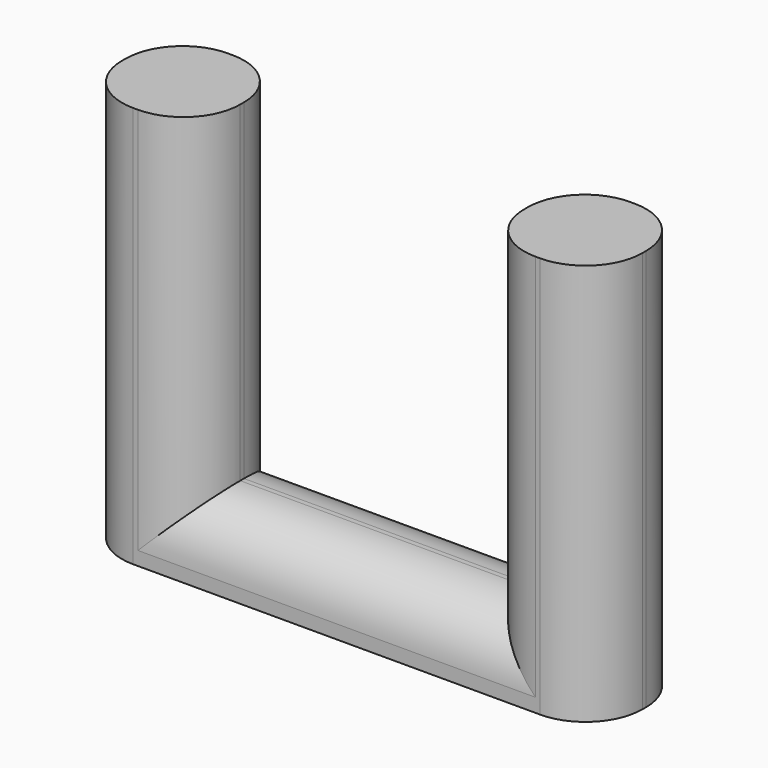
from build123d import *

# Parameters (mm, degrees)
F0_W     = 6.985
F0_H     = 1.5875
F1_DEPTH = 0.94615
F2_W     = 1.5875
F2_H     = 1.5875
F3_DEPTH = 4.445
F4_R     = 0.762


with BuildPart() as f1:
    # F0 (on Top) → F1 (new body)
    with BuildSketch(Plane.XY):
        with Locations((3.4925, 0.79375)):
            Rectangle(F0_W, F0_H)
    extrude(amount=F1_DEPTH)

    # F2 (on face) → F3 (join)
    with BuildSketch(Plane.XY.offset(0.94615)):
        with Locations((0.79375, 0.79375)):
            Rectangle(F2_W, F2_H)
        with Locations((6.19125, 0.79375)):
            Rectangle(F2_W, F2_H)
    extrude(amount=F3_DEPTH)

    # F4
    f4_edges = [f1.edges().sort_by_distance(p)[0] for p in [
        (0, 0, 2.695575),
        (1.5875, 0, 3.16865),
        (3.4925, 0, 0.94615),
        (5.3975, 0, 3.16865),
        (6.985, 0, 2.695575),
        (0, 1.5875, 2.695575),
        (1.5875, 1.5875, 3.16865),
        (3.4925, 1.5875, 0.94615),
        (5.3975, 1.5875, 3.16865),
        (6.985, 1.5875, 2.695575),
    ]]
    fillet(f4_edges, radius=F4_R)


solid = f1.part
